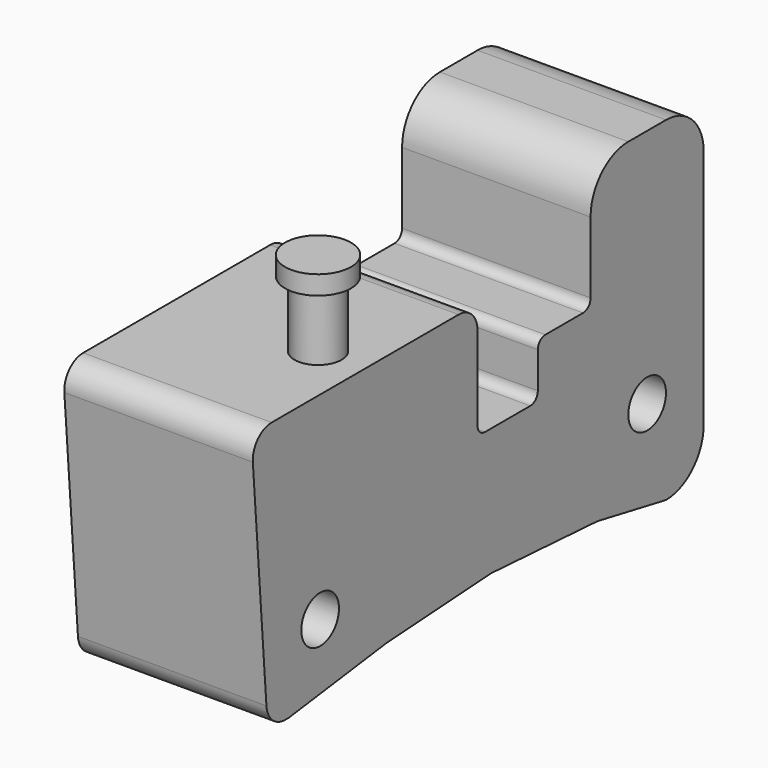
from build123d import *

# Parameters (mm, degrees)
F0_R          = 6.35
F1_DEPTH      = 50.8
F2_R          = 6.35
F3_DEPTH      = 17.78
F4_R          = 8.89
F4_R_2        = 6.35
F5_DEPTH      = 5.08
F6_W          = 12.7
F6_H          = 6.35
F7_DEPTH      = 12.7
F7_DEPTH_BACK = 25.4
F8_R          = 1.905
F9_DEPTH      = 12.7


with BuildPart() as f1:
    # F0 (on Right) → F1 (new body)
    with BuildSketch(Plane.YZ):
        with BuildLine():
            Line((-7.428396, 34.981928), (-20.128396, 34.981928))
            ThreePointArc((-20.128396, 34.981928), (-29.108653, 31.262184), (-32.828396, 22.281928))
            Line((-32.828396, 22.281928), (-32.828396, 3.089348))
            ThreePointArc((-32.828396, 3.089348), (-33.572345, 1.293297), (-35.368396, 0.549348))
            Line((-35.368396, 0.549348), (-48.068396, 0.549348))
            ThreePointArc((-48.068396, 0.549348), (-49.864448, -0.194601), (-50.608396, -1.990652))
            Line((-50.608396, -1.990652), (-50.608396, -11.728213))
            ThreePointArc((-50.608396, -11.728213), (-51.352345, -13.524265), (-53.148396, -14.268213))
            Line((-53.148396, -14.268213), (-68.388396, -14.268213))
            ThreePointArc((-68.388396, -14.268213), (-70.184448, -13.524265), (-70.928396, -11.728213))
            Line((-70.928396, -11.728213), (-70.928396, 10.851928))
            ThreePointArc((-70.928396, 10.851928), (-72.788268, 15.342056), (-77.278396, 17.201928))
            Line((-77.278396, 17.201928), (-139.508396, 17.201928))
            Line((-139.508396, 17.201928), (-140.272923, 17.201928))
            ThreePointArc((-140.272923, 17.201928), (-144.931511, 15.167024), (-146.604342, 10.366514))
            Line((-146.604342, 10.366514), (-142.028059, -49.323486))
            ThreePointArc((-142.028059, -49.323486), (-140.011736, -53.49666), (-135.69664, -55.188072))
            Line((-135.69664, -55.188072), (-134.428396, -55.188072))
            Line((-134.428396, -55.188072), (-101.488806, -50.828371))
            Line((-101.488806, -50.828371), (-66.222131, -48.624206))
            Line((-66.222131, -48.624206), (-30.514626, -50.828371))
            Line((-30.514626, -50.828371), (-7.428396, -55.188072))
            ThreePointArc((-7.428396, -55.188072), (1.55186, -51.468328), (5.271604, -42.488072))
            Line((5.271604, -42.488072), (5.271604, 22.281928))
            ThreePointArc((5.271604, 22.281928), (1.55186, 31.262184), (-7.428396, 34.981928))
        make_face()
        with Locations((-123.933047, -36.138072)):
            Circle(F0_R, mode=Mode.SUBTRACT)
        with Locations((-13.778396, -29.788072)):
            Circle(F0_R, mode=Mode.SUBTRACT)
    extrude(amount=F1_DEPTH)

    # F2 (on face) → F3 (join)
    with BuildSketch(Plane.XY.offset(17.201928)):
        with Locations((38.1, -108.77391)):
            Circle(F2_R)
    extrude(amount=F3_DEPTH)

    # F4 (on face) → F5 (join)
    with BuildSketch(Plane.XY.offset(34.981928)):
        with Locations((38.1, -108.77391)):
            Circle(F4_R)
        with Locations((38.1, -108.77391)):
            Circle(F4_R_2, mode=Mode.SUBTRACT)
        with Locations((38.1, -108.77391)):
            Circle(F4_R_2)
    extrude(amount=F5_DEPTH)

    # F6 (on face) → F7 (join, two sides)
    with BuildSketch(Plane(origin=(0, 5.271604, 0), x_dir=(-1, 0, 0), z_dir=(0, 1, 0))) as f7_sk:
        with Locations((-25.4, -45.663072)):
            Rectangle(F6_W, F6_H)
    extrude(amount=F7_DEPTH)
    extrude(f7_sk.sketch, amount=-F7_DEPTH_BACK)

    # F8 (on face) → F9 (cut)
    with BuildSketch(Plane.XY.offset(-42.488072)):
        with Locations((25.4, 11.621604)):
            Circle(F8_R)
    extrude(amount=-F9_DEPTH, mode=Mode.SUBTRACT)


solid = f1.part
